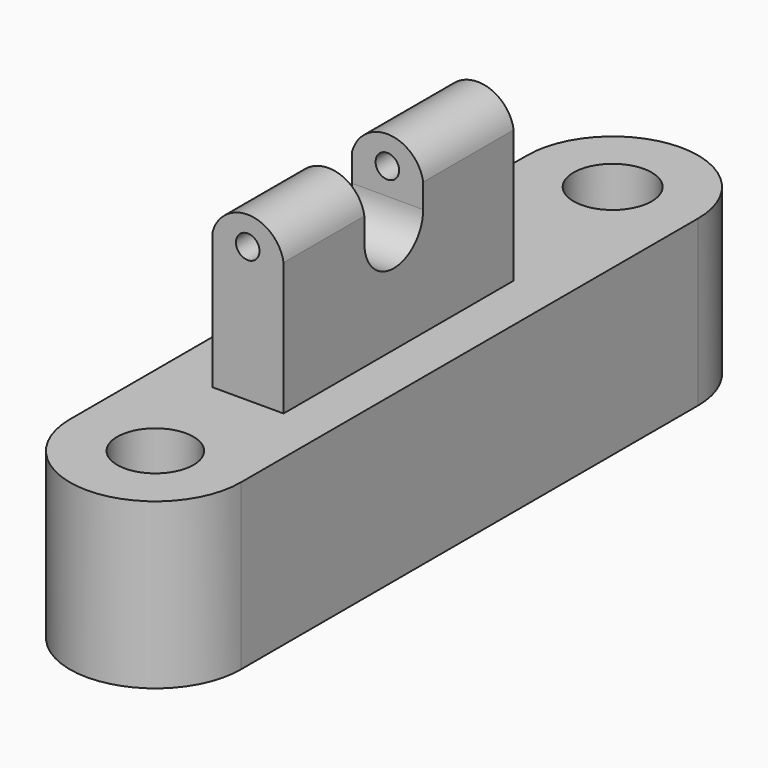
from build123d import *

# Parameters (mm, degrees)
F0_R     = 2.9421946195
F0_R_2   = 3.0131155992
F1_DEPTH = 12.7
F2_W     = 5.4983180016
F2_H     = 22.1828678623
F3_DEPTH = 25.4
F5_DEPTH = 25.4
F7_DEPTH = 127
F8_R     = 0.907588381
F9_DEPTH = 127


with BuildPart() as f1:
    # F0 (on Top) → F1 (new body)
    with BuildSketch(Plane.XY):
        with BuildLine():
            Line((0, 44.08133775), (0, 0))
            ThreePointArc((0, 0), (6.5885009244, -6.5885009244), (13.1770018488, 0))
            Line((13.1770018488, 0), (13.1770018488, 44.08133775))
            ThreePointArc((13.1770018488, 44.08133775), (6.5885009244, 50.6698386744), (0, 44.08133775))
        make_face()
        with Locations((6.5885009244, 0)):
            Circle(F0_R, mode=Mode.SUBTRACT)
        with Locations((6.5885009244, 44.08133775)):
            Circle(F0_R_2, mode=Mode.SUBTRACT)
    extrude(amount=F1_DEPTH)

    # F2 (on Top) → F3 (join)
    with BuildSketch(Plane.XY):
        with Locations((6.8254983053, 19.7181045078)):
            Rectangle(F2_W, F2_H)
    extrude(amount=F3_DEPTH)

    # F4 (on face) → F5 (cut)
    with BuildSketch(Plane.YZ.offset(9.5746573061)):
        with BuildLine():
            Line((22.0856051892, 25.4), (16.4166372269, 25.4))
            Line((16.4166372269, 25.4), (16.4166372269, 21.0717450827))
            ThreePointArc((16.4166372269, 21.0717450827), (19.2511212081, 18.2372611016), (22.0856051892, 21.0717450827))
            Line((22.0856051892, 21.0717450827), (22.0856051892, 25.4))
        make_face()
    extrude(amount=-F5_DEPTH, mode=Mode.SUBTRACT)

    # F6 (on face) → F7 (cut)
    with BuildSketch(Plane.XZ.offset(-8.6266705766)):
        with BuildLine():
            ThreePointArc((4.0763393044, 23.1695235286), (6.9185308411, 25.3015410804), (9.5746573061, 22.9417648677))
            Line((9.5746573061, 22.9417648677), (9.5746573061, 25.4))
            Line((9.5746573061, 25.4), (8.0125611275, 25.4))
            Line((8.0125611275, 25.4), (5.4706284103, 25.4))
            Line((5.4706284103, 25.4), (4.0763393044, 25.4))
            Line((4.0763393044, 25.4), (4.0763393044, 23.5414523631))
            Line((4.0763393044, 23.5414523631), (4.0763393044, 23.1695235286))
        make_face()
    extrude(amount=-F7_DEPTH, mode=Mode.SUBTRACT)

    # F8 (on face) → F9 (cut)
    with BuildSketch(Plane.XZ.offset(-8.6266705766)):
        with Locations((6.8111866713, 23.1206584722)):
            Circle(F8_R)
    extrude(amount=-F9_DEPTH, mode=Mode.SUBTRACT)


solid = f1.part
